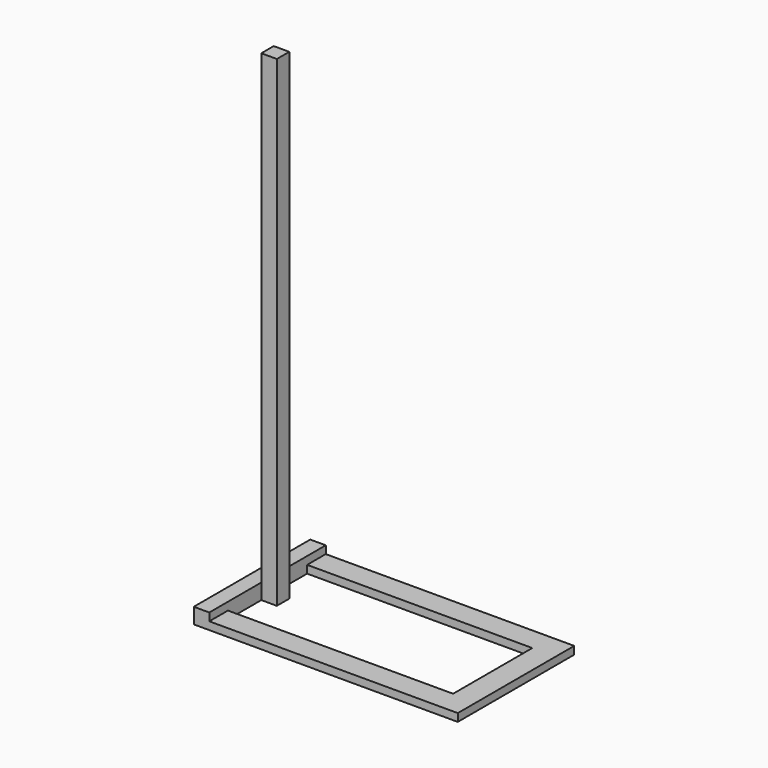
from build123d import *

# Parameters (mm, degrees)
F0_W     = 76.2
F0_H     = 323.85
F1_DEPTH = 25.4
F2_DEPTH = 50.8
F0_W_2   = 50.8
F0_H_2   = 50.8
F3_DEPTH = 1574.8


with BuildPart() as f1:
    # F0 (on Top) → F1 (new body)
    with BuildSketch(Plane.XY):
        Polygon((0, 233.196965), (0, 156.996965), (736.6, 156.996965), (812.8, 156.996965), (812.8, 233.196965), align=None)
        with Locations((774.7, -4.928035)):
            Rectangle(F0_W, F0_H)
        Polygon((812.8, -166.853035), (736.6, -166.853035), (0, -166.853035), (0, -243.053035), (812.8, -243.053035), align=None)
    extrude(amount=F1_DEPTH)

    # F0 (on Top) → F2 (join)
    with BuildSketch(Plane.XY):
        Polygon((0, 20.471965), (0, 156.996965), (0, 233.196965), (-50.8, 233.196965), (-50.8, -243.053035), (0, -243.053035), (0, -166.853035), (0, -30.328035), align=None)
    extrude(amount=F2_DEPTH)

    # F0 (on Top) → F3 (join)
    with BuildSketch(Plane.XY):
        with Locations((25.4, -4.928035)):
            Rectangle(F0_W_2, F0_H_2)
    extrude(amount=F3_DEPTH)


solid = f1.part
